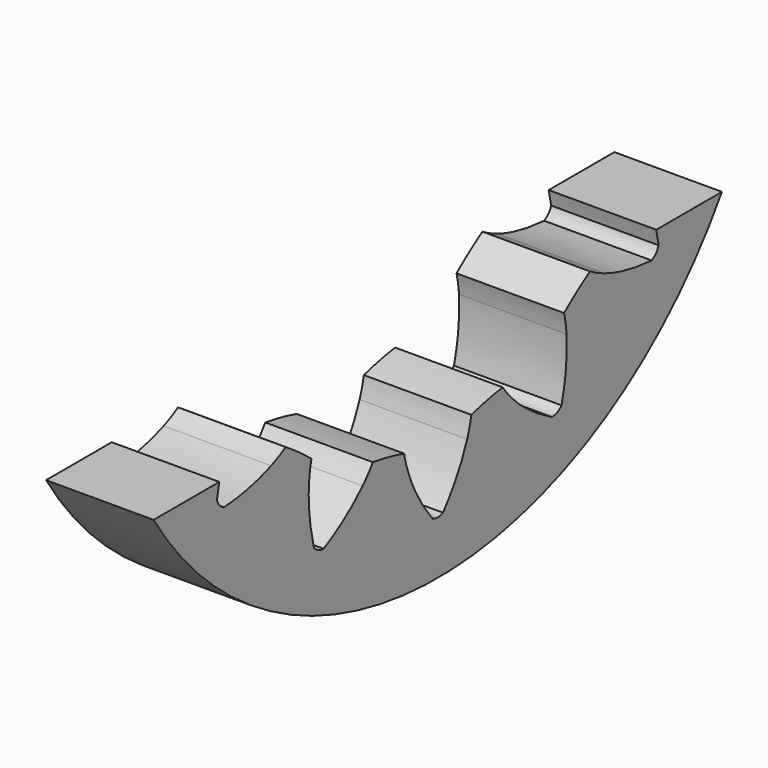
from build123d import *

# Parameters (mm, degrees)
CYLINDER002_R           = 43
CYLINDER002_DEPTH       = 11
BOX003_W                = 66
BOX003_H                = 86
BOX003_DEPTH            = 11
POCKET_DEPTH            = 11
BODY002_PLACEMENT_ANGLE = 90


with BuildPart() as part:
    # Cylinder002 → Cylinder002 (join)
    with BuildSketch(Plane.XY):
        Circle(CYLINDER002_R)
    extrude(amount=CYLINDER002_DEPTH)

    # Box003 → Box003 (cut)
    with BuildSketch(Plane(origin=(-23, -43, 0), x_dir=(1, 0, 0), z_dir=(0, 0, 1))):
        with Locations((33, 43)):
            Rectangle(BOX003_W, BOX003_H)
    extrude(amount=BOX003_DEPTH, mode=Mode.SUBTRACT)

    # InvoluteGear001 → Pocket (cut)
    with BuildSketch(Plane.XY):
        with BuildLine():
            add(Edge.make_bspline(
                [(36.720789, -7.117559), (35.064159, -5.114865), (33.453467, -3.817874), (32.125762, -2.991102)],
                knots=[0, 0, 0, 0, 1, 1, 1, 1], degree=3))
            add(Edge.make_bspline(
                [(32.125762, -2.991102), (31.416273, -2.550129), (30.796057, -2.249632), (30.29133, -2.046354)],
                knots=[0, 0, 0, 0, 1, 1, 1, 1], degree=3))
            ThreePointArc((30.29133, -2.046354), (30.222112, -0.000102), (30.290969, 2.046161))
            add(Edge.make_bspline(
                [(30.290969, 2.046161), (30.796057, 2.249632), (31.416273, 2.550129), (32.125762, 2.991102)],
                knots=[0, 0, 0, 0, 1, 1, 1, 1], degree=3))
            add(Edge.make_bspline(
                [(32.125762, 2.991102), (33.453467, 3.817874), (35.064159, 5.114865), (36.720789, 7.117559)],
                knots=[0, 0, 0, 0, 1, 1, 1, 1], degree=3))
            ThreePointArc((36.720789, 7.117559), (36.721141, 7.80532), (36.441082, 8.433477))
            add(Edge.make_bspline(
                [(36.441082, 8.433477), (34.113106, 9.589217), (32.114132, 10.11895), (30.564934, 10.334217)],
                knots=[0, 0, 0, 0, 1, 1, 1, 1], degree=3))
            add(Edge.make_bspline(
                [(30.564934, 10.334217), (29.737424, 10.44849), (29.048606, 10.470744), (28.504834, 10.451156)],
                knots=[0, 0, 0, 0, 1, 1, 1, 1], degree=3))
            ThreePointArc((28.504834, 10.451156), (27.609315, 12.292347), (26.839929, 14.189708))
            add(Edge.make_bspline(
                [(26.839929, 14.189708), (27.21859, 14.581026), (27.662962, 15.107808), (28.131753, 15.799232)],
                knots=[0, 0, 0, 0, 1, 1, 1, 1], degree=3))
            add(Edge.make_bspline(
                [(28.131753, 15.799232), (29.008394, 17.094552), (29.9523, 18.93454), (30.651138, 21.437904)],
                knots=[0, 0, 0, 0, 1, 1, 1, 1], degree=3))
            ThreePointArc((30.651138, 21.437904), (30.371722, 22.066348), (29.860381, 22.526288))
            add(Edge.make_bspline(
                [(29.860381, 22.526288), (27.263587, 22.635236), (25.221972, 22.306115), (23.719152, 21.872656)],
                knots=[0, 0, 0, 0, 1, 1, 1, 1], degree=3))
            add(Edge.make_bspline(
                [(23.719152, 21.872656), (22.916705, 21.640471), (22.278386, 21.380633), (21.789593, 21.141567)],
                knots=[0, 0, 0, 0, 1, 1, 1, 1], degree=3))
            ThreePointArc((21.789593, 21.141567), (20.222617, 22.459338), (18.748021, 23.879726))
            add(Edge.make_bspline(
                [(18.748021, 23.879726), (18.934782, 24.391228), (19.126474, 25.05321), (19.273509, 25.875531)],
                knots=[0, 0, 0, 0, 1, 1, 1, 1], degree=3))
            add(Edge.make_bspline(
                [(19.273509, 25.875531), (19.547506, 27.415427), (19.661417, 29.480261), (19.281627, 32.051441)],
                knots=[0, 0, 0, 0, 1, 1, 1, 1], degree=3))
            ThreePointArc((19.281627, 32.051441), (18.770757, 32.511904), (18.116549, 32.724099))
            add(Edge.make_bspline(
                [(18.116549, 32.724099), (15.699946, 31.767417), (13.968703, 30.63635), (12.772113, 29.629114)],
                knots=[0, 0, 0, 0, 1, 1, 1, 1], degree=3))
            add(Edge.make_bspline(
                [(12.772113, 29.629114), (12.133479, 29.090618), (11.656032, 28.593616), (11.306734, 28.176408)],
                knots=[0, 0, 0, 0, 1, 1, 1, 1], degree=3))
            ThreePointArc((11.306734, 28.176408), (9.339244, 28.742905), (7.414409, 29.440722))
            add(Edge.make_bspline(
                [(7.414409, 29.440722), (7.376978, 29.983965), (7.282845, 30.666684), (7.0827, 31.477716)],
                knots=[0, 0, 0, 0, 1, 1, 1, 1], degree=3))
            add(Edge.make_bspline(
                [(7.0827, 31.477716), (6.706676, 32.995926), (5.970896, 34.928577), (4.578147, 37.122993)],
                knots=[0, 0, 0, 0, 1, 1, 1, 1], degree=3))
            ThreePointArc((4.578147, 37.122993), (3.924157, 37.335857), (3.2402, 37.263616))
            add(Edge.make_bspline(
                [(3.2402, 37.263616), (1.421642, 35.406723), (0.300119, 33.669282), (-0.38334, 32.262429)],
                knots=[0, 0, 0, 0, 1, 1, 1, 1], degree=3))
            add(Edge.make_bspline(
                [(-0.38334, 32.262429), (-0.747735, 31.510732), (-0.981757, 30.862503), (-1.131162, 30.339293)],
                knots=[0, 0, 0, 0, 1, 1, 1, 1], degree=3))
            ThreePointArc((-1.131162, 30.339293), (-3.158969, 30.056563), (-5.201221, 29.91115))
            add(Edge.make_bspline(
                [(-5.201221, 29.91115), (-5.456372, 30.392202), (-5.820054, 30.97761), (-6.332773, 31.637118)],
                knots=[0, 0, 0, 0, 1, 1, 1, 1], degree=3))
            add(Edge.make_bspline(
                [(-6.332773, 31.637118), (-7.293798, 32.871129), (-8.752048, 34.337425), (-10.916936, 35.775641)],
                knots=[0, 0, 0, 0, 1, 1, 1, 1], degree=3))
            ThreePointArc((-10.916936, 35.775641), (-11.600966, 35.704101), (-12.196408, 35.359916))
            add(Edge.make_bspline(
                [(-12.196408, 35.359916), (-13.102477, 32.923885), (-13.420358, 30.880489), (-13.472511, 29.317277)],
                knots=[0, 0, 0, 0, 1, 1, 1, 1], degree=3))
            add(Edge.make_bspline(
                [(-13.472511, 29.317277), (-13.49966, 28.482355), (-13.44979, 27.794983), (-13.37347, 27.256238)],
                knots=[0, 0, 0, 0, 1, 1, 1, 1], degree=3))
            ThreePointArc((-13.37347, 27.256238), (-15.110967, 26.173168), (-16.917512, 25.209668))
            add(Edge.make_bspline(
                [(-16.917512, 25.209668), (-17.346267, 25.545352), (-17.916613, 25.932226), (-18.653251, 26.326175)],
                knots=[0, 0, 0, 0, 1, 1, 1, 1], degree=3))
            add(Edge.make_bspline(
                [(-18.653251, 26.326175), (-20.033109, 27.062616), (-21.961682, 27.80902), (-24.524381, 28.242357)],
                knots=[0, 0, 0, 0, 1, 1, 1, 1], degree=3))
            ThreePointArc((-24.524381, 28.242357), (-25.120176, 27.898781), (-25.524146, 27.342164))
            add(Edge.make_bspline(
                [(-25.524146, 27.342164), (-25.361058, 24.748208), (-24.820334, 22.752179), (-24.232162, 21.302901)],
                knots=[0, 0, 0, 0, 1, 1, 1, 1], degree=3))
            add(Edge.make_bspline(
                [(-24.232162, 21.302901), (-23.91737, 20.52912), (-23.592233, 19.921458), (-23.303384, 19.460332)],
                knots=[0, 0, 0, 0, 1, 1, 1, 1], degree=3))
            ThreePointArc((-23.303384, 19.460332), (-24.450142, 17.764195), (-25.708612, 16.149206))
            add(Edge.make_bspline(
                [(-25.708612, 16.149206), (-26.236834, 16.281478), (-26.915227, 16.402924), (-27.748413, 16.463197)],
                knots=[0, 0, 0, 0, 1, 1, 1, 1], degree=3))
            add(Edge.make_bspline(
                [(-27.748413, 16.463197), (-29.308513, 16.57473), (-31.373943, 16.472183), (-33.891339, 15.825712)],
                knots=[0, 0, 0, 0, 1, 1, 1, 1], degree=3))
            ThreePointArc((-33.891339, 15.825712), (-34.295879, 15.269509), (-34.438528, 14.596704))
            add(Edge.make_bspline(
                [(-34.438528, 14.596704), (-33.234483, 12.293341), (-31.928648, 10.689811), (-30.801852, 9.60506)],
                knots=[0, 0, 0, 0, 1, 1, 1, 1], degree=3))
            add(Edge.make_bspline(
                [(-30.801852, 9.60506), (-30.19955, 9.026213), (-29.655365, 8.603332), (-29.203931, 8.299558)],
                knots=[0, 0, 0, 0, 1, 1, 1, 1], degree=3))
            ThreePointArc((-29.203931, 8.299558), (-29.561665, 6.283631), (-30.05446, 4.296399))
            add(Edge.make_bspline(
                [(-30.05446, 4.296399), (-30.590814, 4.202389), (-31.259953, 4.037408), (-32.045622, 3.753583)],
                knots=[0, 0, 0, 0, 1, 1, 1, 1], degree=3))
            add(Edge.make_bspline(
                [(-32.045622, 3.753583), (-33.51621, 3.220923), (-35.361363, 2.287156), (-37.398176, 0.672658)],
                knots=[0, 0, 0, 0, 1, 1, 1, 1], degree=3))
            ThreePointArc((-37.398176, 0.672658), (-37.541513, 0), (-37.398176, -0.672658))
            add(Edge.make_bspline(
                [(-37.398176, -0.672658), (-35.361363, -2.287156), (-33.51621, -3.220923), (-32.045622, -3.753583)],
                knots=[0, 0, 0, 0, 1, 1, 1, 1], degree=3))
            add(Edge.make_bspline(
                [(-32.045622, -3.753583), (-31.259953, -4.037408), (-30.590814, -4.202389), (-30.054852, -4.296285)],
                knots=[0, 0, 0, 0, 1, 1, 1, 1], degree=3))
            ThreePointArc((-30.054852, -4.296285), (-29.561708, -6.28343), (-29.203618, -8.299294))
            add(Edge.make_bspline(
                [(-29.203618, -8.299294), (-29.655365, -8.603332), (-30.19955, -9.026213), (-30.801852, -9.60506)],
                knots=[0, 0, 0, 0, 1, 1, 1, 1], degree=3))
            add(Edge.make_bspline(
                [(-30.801852, -9.60506), (-31.928648, -10.689811), (-33.234483, -12.293341), (-34.438528, -14.596704)],
                knots=[0, 0, 0, 0, 1, 1, 1, 1], degree=3))
            ThreePointArc((-34.438528, -14.596704), (-34.295879, -15.269509), (-33.891339, -15.825712))
            add(Edge.make_bspline(
                [(-33.891339, -15.825712), (-31.373943, -16.472183), (-29.308513, -16.57473), (-27.748413, -16.463197)],
                knots=[0, 0, 0, 0, 1, 1, 1, 1], degree=3))
            add(Edge.make_bspline(
                [(-27.748413, -16.463197), (-26.915227, -16.402924), (-26.236834, -16.281478), (-25.709017, -16.149262)],
                knots=[0, 0, 0, 0, 1, 1, 1, 1], degree=3))
            ThreePointArc((-25.709017, -16.149262), (-24.450263, -17.764029), (-23.303206, -19.459964))
            add(Edge.make_bspline(
                [(-23.303206, -19.459964), (-23.592233, -19.921458), (-23.91737, -20.52912), (-24.232162, -21.302901)],
                knots=[0, 0, 0, 0, 1, 1, 1, 1], degree=3))
            add(Edge.make_bspline(
                [(-24.232162, -21.302901), (-24.820334, -22.752179), (-25.361058, -24.748208), (-25.524146, -27.342164)],
                knots=[0, 0, 0, 0, 1, 1, 1, 1], degree=3))
            ThreePointArc((-25.524146, -27.342164), (-25.120176, -27.898781), (-24.524381, -28.242357))
            add(Edge.make_bspline(
                [(-24.524381, -28.242357), (-21.961682, -27.80902), (-20.033109, -27.062616), (-18.653251, -26.326175)],
                knots=[0, 0, 0, 0, 1, 1, 1, 1], degree=3))
            add(Edge.make_bspline(
                [(-18.653251, -26.326175), (-17.916613, -25.932226), (-17.346267, -25.545352), (-16.917859, -25.209884)],
                knots=[0, 0, 0, 0, 1, 1, 1, 1], degree=3))
            ThreePointArc((-16.917859, -25.209884), (-15.111145, -26.173066), (-13.373457, -27.25583))
            add(Edge.make_bspline(
                [(-13.373457, -27.25583), (-13.44979, -27.794983), (-13.49966, -28.482355), (-13.472511, -29.317277)],
                knots=[0, 0, 0, 0, 1, 1, 1, 1], degree=3))
            add(Edge.make_bspline(
                [(-13.472511, -29.317277), (-13.420358, -30.880489), (-13.102477, -32.923885), (-12.196408, -35.359916)],
                knots=[0, 0, 0, 0, 1, 1, 1, 1], degree=3))
            ThreePointArc((-12.196408, -35.359916), (-11.600966, -35.704101), (-10.916936, -35.775641))
            add(Edge.make_bspline(
                [(-10.916936, -35.775641), (-8.752048, -34.337425), (-7.293798, -32.871129), (-6.332773, -31.637118)],
                knots=[0, 0, 0, 0, 1, 1, 1, 1], degree=3))
            add(Edge.make_bspline(
                [(-6.332773, -31.637118), (-5.820054, -30.97761), (-5.456372, -30.392202), (-5.20145, -29.911488)],
                knots=[0, 0, 0, 0, 1, 1, 1, 1], degree=3))
            ThreePointArc((-5.20145, -29.911488), (-3.159173, -30.056542), (-1.131316, -30.338914))
            add(Edge.make_bspline(
                [(-1.131316, -30.338914), (-0.981757, -30.862503), (-0.747735, -31.510732), (-0.38334, -32.262429)],
                knots=[0, 0, 0, 0, 1, 1, 1, 1], degree=3))
            add(Edge.make_bspline(
                [(-0.38334, -32.262429), (0.300119, -33.669282), (1.421642, -35.406723), (3.2402, -37.263616)],
                knots=[0, 0, 0, 0, 1, 1, 1, 1], degree=3))
            ThreePointArc((3.2402, -37.263616), (3.924157, -37.335857), (4.578147, -37.122993))
            add(Edge.make_bspline(
                [(4.578147, -37.122993), (5.970896, -34.928577), (6.706676, -32.995926), (7.0827, -31.477716)],
                knots=[0, 0, 0, 0, 1, 1, 1, 1], degree=3))
            add(Edge.make_bspline(
                [(7.0827, -31.477716), (7.282845, -30.666684), (7.376978, -29.983965), (7.414337, -29.441125)],
                knots=[0, 0, 0, 0, 1, 1, 1, 1], degree=3))
            ThreePointArc((7.414337, -29.441125), (9.339049, -28.742969), (11.306439, -28.176125))
            add(Edge.make_bspline(
                [(11.306439, -28.176125), (11.656032, -28.593616), (12.133479, -29.090618), (12.772113, -29.629114)],
                knots=[0, 0, 0, 0, 1, 1, 1, 1], degree=3))
            add(Edge.make_bspline(
                [(12.772113, -29.629114), (13.968703, -30.63635), (15.699946, -31.767417), (18.116549, -32.724099)],
                knots=[0, 0, 0, 0, 1, 1, 1, 1], degree=3))
            ThreePointArc((18.116549, -32.724099), (18.770757, -32.511904), (19.281627, -32.051441))
            add(Edge.make_bspline(
                [(19.281627, -32.051441), (19.661417, -29.480261), (19.547506, -27.415427), (19.273509, -25.875531)],
                knots=[0, 0, 0, 0, 1, 1, 1, 1], degree=3))
            add(Edge.make_bspline(
                [(19.273509, -25.875531), (19.126474, -25.05321), (18.934782, -24.391228), (18.748118, -23.880123)],
                knots=[0, 0, 0, 0, 1, 1, 1, 1], degree=3))
            ThreePointArc((18.748118, -23.880123), (20.222464, -22.459475), (21.789209, -21.141428))
            add(Edge.make_bspline(
                [(21.789209, -21.141428), (22.278386, -21.380633), (22.916705, -21.640471), (23.719152, -21.872656)],
                knots=[0, 0, 0, 0, 1, 1, 1, 1], degree=3))
            add(Edge.make_bspline(
                [(23.719152, -21.872656), (25.221972, -22.306115), (27.263587, -22.635236), (29.860381, -22.526288)],
                knots=[0, 0, 0, 0, 1, 1, 1, 1], degree=3))
            ThreePointArc((29.860381, -22.526288), (30.371722, -22.066348), (30.651138, -21.437904))
            add(Edge.make_bspline(
                [(30.651138, -21.437904), (29.9523, -18.93454), (29.008394, -17.094552), (28.131753, -15.799232)],
                knots=[0, 0, 0, 0, 1, 1, 1, 1], degree=3))
            add(Edge.make_bspline(
                [(28.131753, -15.799232), (27.662962, -15.107808), (27.21859, -14.581026), (26.840179, -14.190031)],
                knots=[0, 0, 0, 0, 1, 1, 1, 1], degree=3))
            ThreePointArc((26.840179, -14.190031), (27.609232, -12.292534), (28.504426, -10.451186))
            add(Edge.make_bspline(
                [(28.504426, -10.451186), (29.048606, -10.470744), (29.737424, -10.44849), (30.564934, -10.334217)],
                knots=[0, 0, 0, 0, 1, 1, 1, 1], degree=3))
            add(Edge.make_bspline(
                [(30.564934, -10.334217), (32.114132, -10.11895), (34.113106, -9.589217), (36.441082, -8.433477)],
                knots=[0, 0, 0, 0, 1, 1, 1, 1], degree=3))
            ThreePointArc((36.441082, -8.433477), (36.721141, -7.80532), (36.720789, -7.117559))
        make_face()
    extrude(amount=POCKET_DEPTH, mode=Mode.SUBTRACT)


with BuildPart() as part_1:
    # Body002 placement: moved
    add(part.part.moved(Location((0, 31, 9))).rotate(Axis((0, 31, 9), (0, -1, 0)), BODY002_PLACEMENT_ANGLE))


solid = part_1.part
